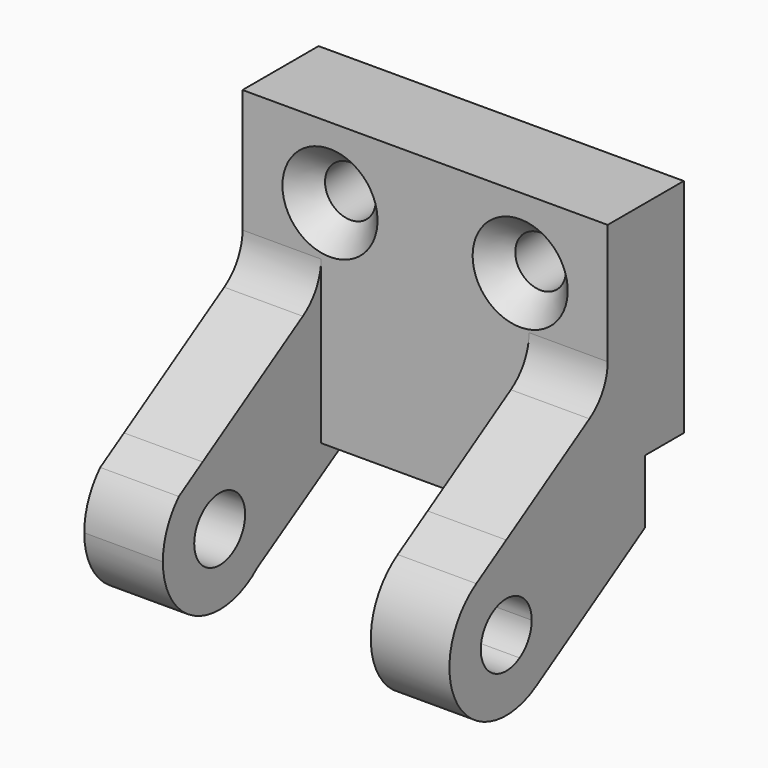
from build123d import *

# Parameters (mm, degrees)
F1_DEPTH       = 73.152
F4_D           = 10.16
F4_CSINK_D     = 19.05
F4_CSINK_ANGLE = 82
F6_DEPTH       = 15.748
F7_R           = 6.3754
F8_DEPTH       = 15.748
F9_R           = 9.652


with BuildPart() as f1:
    # F0 (on Right) → F1 (new body)
    with BuildSketch(Plane.YZ):
        Polygon((15.0091618985, 43.1099530668), (-4.0408381015, 43.1099530668), (-4.0408381015, -14.0400469332), (5.3571618985, -14.0400469332), (5.3571618985, -1.3400469332), (15.0091618985, -1.3400469332), align=None)
    extrude(amount=F1_DEPTH)

    # F4 (through all)
    with Locations(Plane.XZ.offset(4.0408381015)):
        with Locations((17.526, 28.8859530668), (55.626, 28.8859530668)):
            CounterSinkHole(F4_D / 2, F4_CSINK_D / 2, counter_sink_angle=F4_CSINK_ANGLE)

    # F5 (on face) → F6 (join)
    with BuildSketch(Plane.YZ.offset(73.152)):
        with BuildLine():
            Line((-21.9497195355, -30.9575860672), (-2.432565009, -18.8660469332))
            Line((-2.432565009, -18.8660469332), (-15.2168381015, -18.8660469332))
            ThreePointArc((-15.2168381015, -18.8660469332), (-17.0135325512, -25.7858917839), (-21.9497195355, -30.9575860672))
        make_face()
        with BuildLine():
            Line((-29.4408381015, -4.6420469332), (-29.4408381015, -2.1335057937))
            Line((-29.4408381015, -2.1335057937), (-36.9319566675, -6.7745077991))
            ThreePointArc((-36.9319566675, -6.7745077991), (-33.3352009093, -5.1855456879), (-29.4408381015, -4.6420469332))
        make_face()
        with BuildLine():
            Line((-32.7984644588, -13.446446357), (-36.9319566675, -6.7745077991))
            ThreePointArc((-36.9319566675, -6.7745077991), (-41.5323772355, -26.3571654992), (-21.9497195355, -30.9575860672))
            Line((-21.9497195355, -30.9575860672), (-26.0832117442, -24.2856475093))
            ThreePointArc((-26.0832117442, -24.2856475093), (-34.8604386776, -22.2236732904), (-32.7984644588, -13.446446357))
        make_face()
        with BuildLine():
            ThreePointArc((-21.9497195355, -30.9575860672), (-17.0135325512, -25.7858917839), (-15.2168381015, -18.8660469332))
            Line((-15.2168381015, -18.8660469332), (-23.0654381015, -18.8660469332))
            ThreePointArc((-23.0654381015, -18.8660469332), (-23.8707422209, -21.9676202502), (-26.0832117442, -24.2856475093))
            Line((-26.0832117442, -24.2856475093), (-21.9497195355, -30.9575860672))
        make_face()
        with BuildLine():
            Line((-29.4408381015, -12.4906469332), (-29.4408381015, -4.6420469332))
            ThreePointArc((-29.4408381015, -4.6420469332), (-33.3352009093, -5.1855456879), (-36.9319566675, -6.7745077991))
            Line((-36.9319566675, -6.7745077991), (-32.7984644588, -13.446446357))
            ThreePointArc((-32.7984644588, -13.446446357), (-31.1863471457, -12.7342508393), (-29.4408381015, -12.4906469332))
        make_face()
        with BuildLine():
            Line((-4.0408381015, -14.0400469332), (-4.0408381015, 13.602655622))
            Line((-4.0408381015, 13.602655622), (-29.4408381015, -2.1335057937))
            Line((-29.4408381015, -2.1335057937), (-29.4408381015, -4.6420469332))
            ThreePointArc((-29.4408381015, -4.6420469332), (-19.3829512459, -8.8081600776), (-15.2168381015, -18.8660469332))
            Line((-15.2168381015, -18.8660469332), (-2.432565009, -18.8660469332))
            Line((-2.432565009, -18.8660469332), (5.3571618985, -14.0400469332))
            Line((5.3571618985, -14.0400469332), (-4.0408381015, -14.0400469332))
        make_face()
        with BuildLine():
            ThreePointArc((-15.2168381015, -18.8660469332), (-19.3829512459, -8.8081600776), (-29.4408381015, -4.6420469332))
            Line((-29.4408381015, -4.6420469332), (-29.4408381015, -12.4906469332))
            ThreePointArc((-29.4408381015, -12.4906469332), (-24.9327495287, -14.3579583604), (-23.0654381015, -18.8660469332))
            Line((-23.0654381015, -18.8660469332), (-15.2168381015, -18.8660469332))
        make_face()
    extrude(amount=-F6_DEPTH)

    # F7 (on face) → F8 (join)
    with BuildSketch(Plane(origin=(0, 0, 0), x_dir=(0, -1, 0), z_dir=(-1, 0, 0))):
        with BuildLine():
            ThreePointArc((19.9829674828, -29.4901167446), (35.2629264004, -31.8439305757), (43.6648381015, -18.8660469332))
            ThreePointArc((43.6648381015, -18.8660469332), (42.6255838026, -13.5289450231), (39.6596838836, -8.9717371097))
            Line((39.6596838836, -8.9717371097), (33.7111787045, -5.2982038056))
            ThreePointArc((33.7111787045, -5.2982038056), (17.0699133249, -11.8459047572), (19.9829674828, -29.4901167446))
        make_face()
        with Locations((29.4408381015, -18.8660469332)):
            Circle(F7_R, mode=Mode.SUBTRACT)
        with BuildLine():
            Line((-5.3571618985, -14.0400469332), (19.9829674828, -29.4901167446))
            ThreePointArc((19.9829674828, -29.4901167446), (17.0699133249, -11.8459047572), (33.7111787045, -5.2982038056))
            Line((33.7111787045, -5.2982038056), (4.0408381015, 13.0248842761))
            Line((4.0408381015, 13.0248842761), (4.0408381015, -14.0400469332))
            Line((4.0408381015, -14.0400469332), (-5.3571618985, -14.0400469332))
        make_face()
    extrude(amount=-F8_DEPTH)

    # F9
    f9_edges = [f1.edges().sort_by_distance(p)[0] for p in [
        (65.278, -4.040838, 13.602656),
        (7.874, -4.040838, 13.024884),
    ]]
    fillet(f9_edges, radius=F9_R)


solid = f1.part
